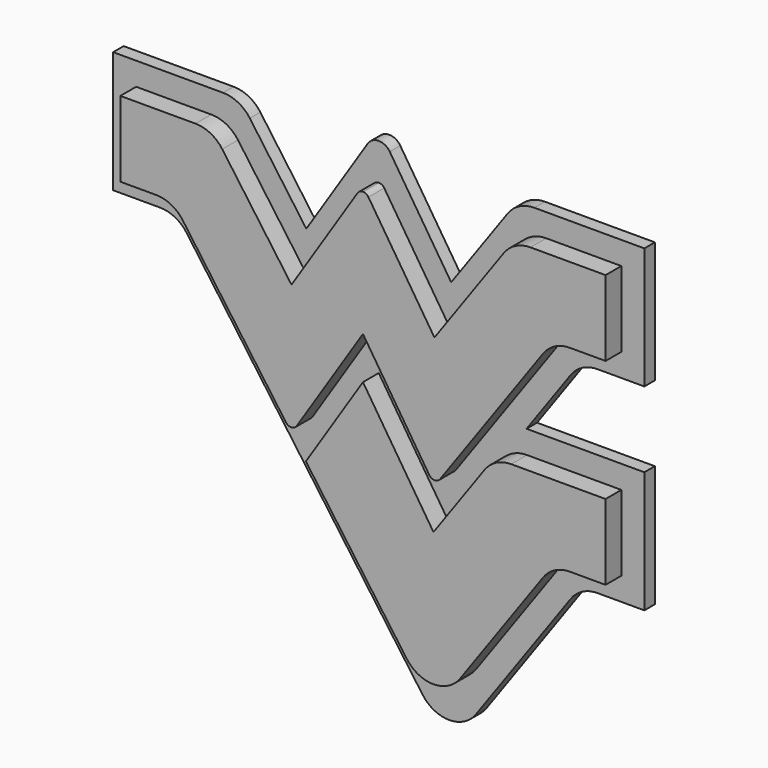
from build123d import *

# Parameters (mm, degrees)
F1_DEPTH = 5
F2_DEPTH = 2


with BuildPart() as f1:
    # F0 (on Front) → F1 (new body)
    with BuildSketch(Plane.XZ):
        with BuildLine():
            Line((26.036541, -16.825532), (0, 0))
            Line((0, 0), (0, -11.5))
            Line((0, -11.5), (5.429187, -11.5))
            ThreePointArc((5.429187, -11.5), (7.715494, -12.053338), (9.495761, -13.59088))
            Line((9.495761, -13.59088), (25.181226, -35.517138))
            ThreePointArc((25.181226, -35.517138), (25.55606, -35.834055), (26.036541, -35.934432))
            Line((26.036541, -35.934432), (26.036541, -16.825532))
        make_face()
        with BuildLine():
            Line((11.429187, 0), (0, 0))
            Line((0, 0), (26.036541, -16.825532))
            Line((26.036541, -16.825532), (15.495761, -2.09088))
            ThreePointArc((15.495761, -2.09088), (13.715494, -0.553338), (11.429187, 0))
        make_face()
        with BuildLine():
            Line((36.069776, -1.299679), (26.036541, -16.825532))
            Line((26.036541, -16.825532), (26.036541, -35.934432))
            ThreePointArc((26.036541, -35.934432), (26.491026, -35.803359), (26.834429, -35.478073))
            Line((26.834429, -35.478073), (36.909665, -19.887226))
            Line((36.909665, -19.887226), (36.909665, -0.842438))
            ThreePointArc((36.909665, -0.842438), (36.431522, -0.964156), (36.069776, -1.299679))
        make_face()
        with BuildLine():
            ThreePointArc((37.749553, -1.299679), (37.387807, -0.964156), (36.909665, -0.842438))
            Line((36.909665, -0.842438), (36.909665, -19.887226))
            Line((36.909665, -19.887226), (46.984901, -35.478073))
            ThreePointArc((46.984901, -35.478073), (47.328304, -35.803359), (47.782789, -35.934432))
            Line((47.782789, -35.934432), (47.782789, -16.825532))
            Line((47.782789, -16.825532), (37.749553, -1.299679))
        make_face()
        with BuildLine():
            Line((58.323569, -2.09088), (47.782789, -16.825532))
            Line((47.782789, -16.825532), (47.782789, -35.934432))
            ThreePointArc((47.782789, -35.934432), (48.263269, -35.834055), (48.638104, -35.517138))
            Line((48.638104, -35.517138), (64.323569, -13.59088))
            ThreePointArc((64.323569, -13.59088), (66.103836, -12.053338), (68.390143, -11.5))
            Line((68.390143, -11.5), (73.81933, -11.5))
            Line((73.81933, -11.5), (73.81933, 0))
            Line((73.81933, 0), (62.390143, 0))
            ThreePointArc((62.390143, 0), (60.103836, -0.553338), (58.323569, -2.09088))
        make_face()
        with BuildLine():
            Line((36.909665, -26.33576), (28.225963, -39.773288))
            Line((28.225963, -39.773288), (43.569213, -61.221172))
            ThreePointArc((43.569213, -61.221172), (47.635786, -63.312053), (51.70236, -61.221172))
            Line((51.70236, -61.221172), (64.323569, -43.57835))
            ThreePointArc((64.323569, -43.57835), (66.103836, -42.040808), (68.390143, -41.48747))
            Line((68.390143, -41.48747), (73.81933, -41.48747))
            Line((73.81933, -41.48747), (73.81933, -29.98747))
            Line((73.81933, -29.98747), (59.468072, -29.98747))
            ThreePointArc((59.468072, -29.98747), (57.181765, -30.540808), (55.401499, -32.07835))
            Line((55.401499, -32.07835), (47.635786, -42.933814))
            Line((47.635786, -42.933814), (36.909665, -26.33576))
        make_face()
    extrude(amount=F1_DEPTH)

    # F0 (on Front) → F2 (join)
    with BuildSketch(Plane.XZ):
        with BuildLine():
            Line((26.183543, -42.933814), (28.225963, -39.773288))
            Line((28.225963, -39.773288), (36.909665, -26.33576))
            Line((36.909665, -26.33576), (47.635786, -42.933814))
            Line((47.635786, -42.933814), (55.401499, -32.07835))
            Line((55.401499, -32.07835), (59.401067, -26.48747))
            Line((59.401067, -26.48747), (66.123138, -17.090881))
            ThreePointArc((66.123138, -17.090881), (67.903405, -15.553339), (70.189712, -15))
            Line((70.189712, -15), (77.31933, -15))
            Line((77.31933, -15), (77.31933, 3.5))
            Line((77.31933, 3.5), (60.590573, 3.5))
            ThreePointArc((60.590573, 3.5), (58.304266, 2.946662), (56.524, 1.40912))
            Line((56.524, 1.40912), (47.929791, -10.604476))
            Line((47.929791, -10.604476), (38.589442, 3.849175))
            ThreePointArc((38.589442, 3.849175), (36.909665, 4.763657), (35.229888, 3.849175))
            Line((35.229888, 3.849175), (25.889539, -10.604476))
            Line((25.889539, -10.604476), (17.29533, 1.40912))
            ThreePointArc((17.29533, 1.40912), (15.515063, 2.946662), (13.228756, 3.5))
            Line((13.228756, 3.5), (-3.5, 3.5))
            Line((-3.5, 3.5), (-3.5, -15))
            Line((-3.5, -15), (3.629617, -15))
            ThreePointArc((3.629617, -15), (5.915925, -15.553339), (7.696191, -17.090881))
            Line((7.696191, -17.090881), (26.183543, -42.933814))
        make_face()
        with BuildLine():
            Line((0, -11.5), (0, 0))
            Line((0, 0), (11.429187, 0))
            ThreePointArc((11.429187, 0), (13.715494, -0.553338), (15.495761, -2.09088))
            Line((15.495761, -2.09088), (26.036541, -16.825532))
            Line((26.036541, -16.825532), (36.069776, -1.299679))
            ThreePointArc((36.069776, -1.299679), (36.431522, -0.964156), (36.909665, -0.842438))
            ThreePointArc((36.909665, -0.842438), (37.387807, -0.964156), (37.749553, -1.299679))
            Line((37.749553, -1.299679), (47.782789, -16.825532))
            Line((47.782789, -16.825532), (58.323569, -2.09088))
            ThreePointArc((58.323569, -2.09088), (60.103836, -0.553338), (62.390143, 0))
            Line((62.390143, 0), (73.81933, 0))
            Line((73.81933, 0), (73.81933, -11.5))
            Line((73.81933, -11.5), (68.390143, -11.5))
            ThreePointArc((68.390143, -11.5), (66.103836, -12.053338), (64.323569, -13.59088))
            Line((64.323569, -13.59088), (48.638104, -35.517138))
            ThreePointArc((48.638104, -35.517138), (48.263269, -35.834055), (47.782789, -35.934432))
            ThreePointArc((47.782789, -35.934432), (47.328304, -35.803359), (46.984901, -35.478073))
            Line((46.984901, -35.478073), (36.909665, -19.887226))
            Line((36.909665, -19.887226), (26.834429, -35.478073))
            ThreePointArc((26.834429, -35.478073), (26.491026, -35.803359), (26.036541, -35.934432))
            ThreePointArc((26.036541, -35.934432), (25.55606, -35.834055), (25.181226, -35.517138))
            Line((25.181226, -35.517138), (9.495761, -13.59088))
            ThreePointArc((9.495761, -13.59088), (7.715494, -12.053338), (5.429187, -11.5))
            Line((5.429187, -11.5), (0, -11.5))
        make_face(mode=Mode.SUBTRACT)
        with BuildLine():
            Line((43.569213, -61.221172), (28.225963, -39.773288))
            Line((28.225963, -39.773288), (26.183543, -42.933814))
            Line((26.183543, -42.933814), (43.569212, -67.236738))
            ThreePointArc((43.569212, -67.236738), (47.635787, -69.327619), (51.702361, -67.236738))
            Line((51.702361, -67.236738), (66.123138, -47.07835))
            ThreePointArc((66.123138, -47.07835), (67.903405, -45.540808), (70.189712, -44.98747))
            Line((70.189712, -44.98747), (77.31933, -44.98747))
            Line((77.31933, -44.98747), (77.31933, -26.48747))
            Line((77.31933, -26.48747), (59.401067, -26.48747))
            Line((59.401067, -26.48747), (55.401499, -32.07835))
            ThreePointArc((55.401499, -32.07835), (57.181765, -30.540808), (59.468072, -29.98747))
            Line((59.468072, -29.98747), (73.81933, -29.98747))
            Line((73.81933, -29.98747), (73.81933, -41.48747))
            Line((73.81933, -41.48747), (68.390143, -41.48747))
            ThreePointArc((68.390143, -41.48747), (66.103836, -42.040808), (64.323569, -43.57835))
            Line((64.323569, -43.57835), (51.70236, -61.221172))
            ThreePointArc((51.70236, -61.221172), (47.635786, -63.312053), (43.569213, -61.221172))
        make_face()
    extrude(amount=F2_DEPTH)


solid = f1.part
